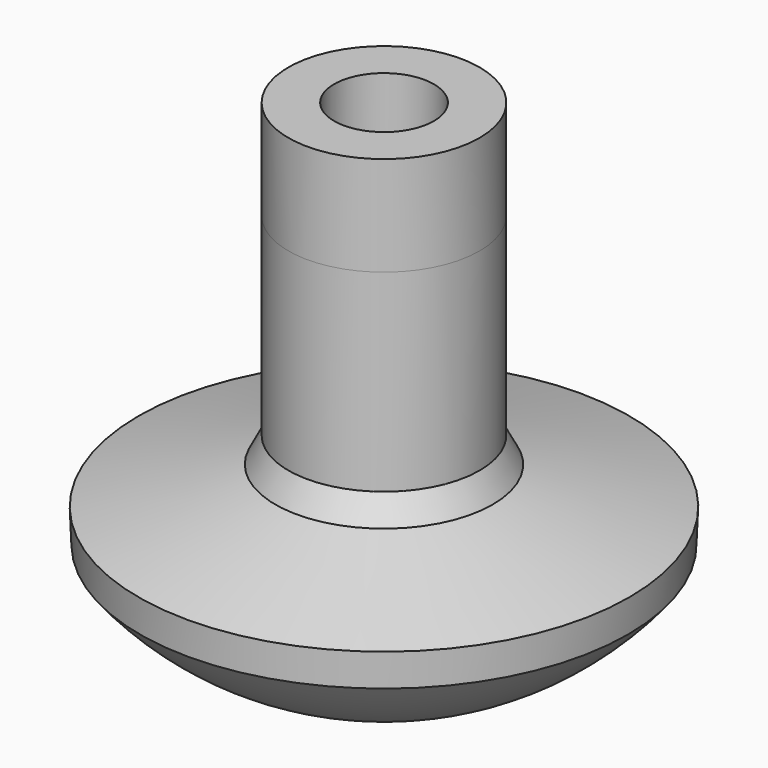
from build123d import *

# Parameters (mm, degrees)
F2_R     = 9.025546
F2_R_2   = 4.7117
F3_DEPTH = 9.398


with BuildPart() as f1:
    # F0 (on Front) → F1 (revolve)
    with BuildSketch(Plane.XZ):
        with BuildLine():
            Line((5.046254, 38.13272), (0, 38.13272))
            Line((0, 38.13272), (0, 17.76702))
            Line((0, 17.76702), (1.530748, 17.76702))
            Line((1.530748, 17.76702), (1.530748, 0.568699))
            Line((1.530748, 0.568699), (1.53281, 0.039258))
            ThreePointArc((1.53281, 0.039258), (13.471036, 3.072448), (23.04421, 10.823306))
            Line((23.04421, 10.823306), (23.169499, 13.955529))
            Line((23.169499, 13.955529), (10.264745, 17.463617))
            Line((10.264745, 17.463617), (9.025546, 19.888902))
            Line((9.025546, 19.888902), (9.025546, 38.13272))
            Line((9.025546, 38.13272), (5.046254, 38.13272))
        make_face()
    revolve(axis=Axis((0, 0, 23.701513), (0, 0, 1)))

    # F2 (on face) → F3 (join)
    with BuildSketch(Plane.XY.offset(38.13272)):
        Circle(F2_R)
        Circle(F2_R_2, mode=Mode.SUBTRACT)
    extrude(amount=F3_DEPTH)


solid = f1.part
